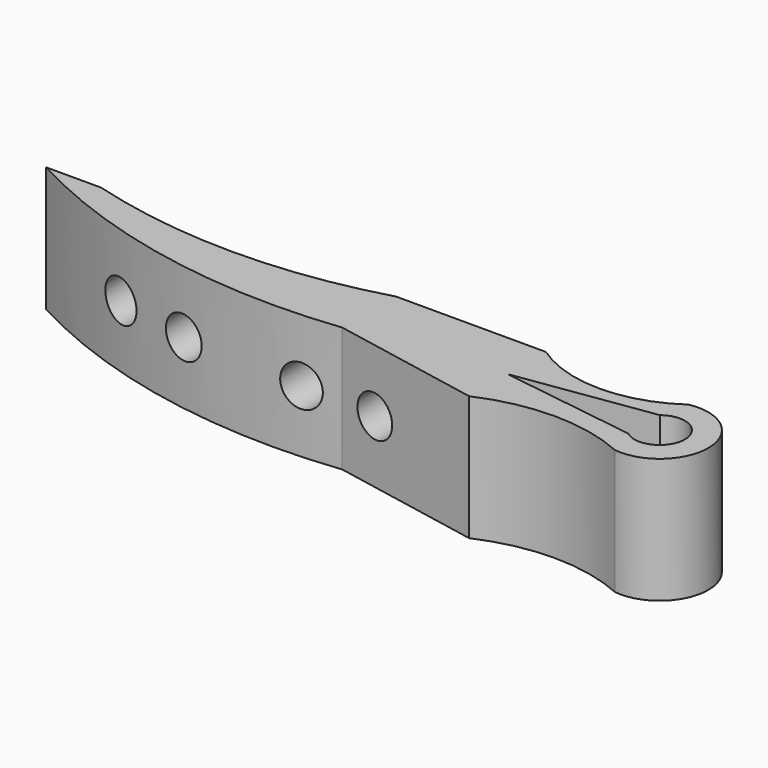
from build123d import *

# Parameters (mm, degrees)
F1_DEPTH = 25
F2_R     = 4.1
F3_DEPTH = 25


with BuildPart() as f1:
    # F0 (on Top) → F1 (new body)
    with BuildSketch(Plane.XY):
        with BuildLine():
            ThreePointArc((-70, 0), (-36.032673, -12.098464), (0, -13.439566))
            Line((0, -13.439566), (30, -19.199381))
            ThreePointArc((30, -19.199381), (44.589191, -16.091), (59.178382, -19.199381))
            ThreePointArc((59.178382, -19.199381), (70.113907, -9.217961), (58.527552, 0))
            ThreePointArc((58.527552, 0), (44.263776, -4.461903), (30, 0))
            Line((30, 0), (0, 0))
            ThreePointArc((0, 0), (-29.481515, -4.146069), (-58.963031, 0))
            Line((-58.963031, 0), (-70, 0))
        make_face()
        with BuildLine():
            ThreePointArc((57.279562, -5.566995), (62.605872, -5.005802), (65.444396, -9.54753))
            ThreePointArc((65.444396, -9.54753), (62.605872, -14.089259), (57.279562, -13.528066))
            Line((57.279562, -13.528066), (30, -9.59969))
            Line((30, -9.59969), (57.279562, -5.566995))
        make_face(mode=Mode.SUBTRACT)
    extrude(amount=F1_DEPTH)

    # F2 (on face) → F3 (cut)
    with BuildSketch(Plane(origin=(0, 0, 0), x_dir=(-1, 0, 0), z_dir=(0, 1, 0))):
        with Locations((-7.695812, 12.5)):
            Circle(F2_R)
        with Locations((7.695812, 12.5)):
            Circle(F2_R)
        with Locations((32.304188, 12.5)):
            Circle(F2_R)
        with Locations((47.695812, 12.5)):
            Circle(F2_R)
    extrude(amount=-F3_DEPTH, mode=Mode.SUBTRACT)


solid = f1.part
